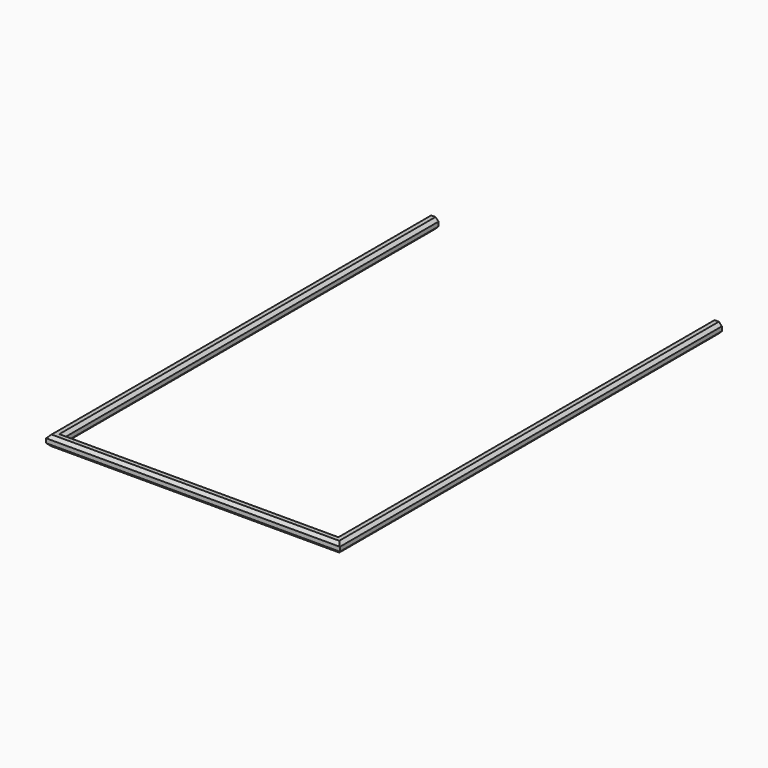
from build123d import *


with BuildPart() as f2:
    # F2: sweep along a path in F0
    with BuildLine(Plane.XY) as f2_path:
        Line((0, 0), (0, -250))
        Line((0, -250), (150, -250))
        Line((150, -250), (150, 0))
    # F1 (on Front) → F2 (sweep)
    with BuildSketch(Plane.XZ):
        Polygon((1.1390872965, 2.75), (-1.1390872965, 2.75), (-2.75, 1.1390872965), (-2.75, -1.1390872965), (-1.1390872965, -2.75), (1.1390872965, -2.75), (2.75, -1.1390872965), (2.75, 1.1390872965), align=None)
    sweep(path=f2_path.line, transition=Transition.RIGHT)


solid = f2.part
